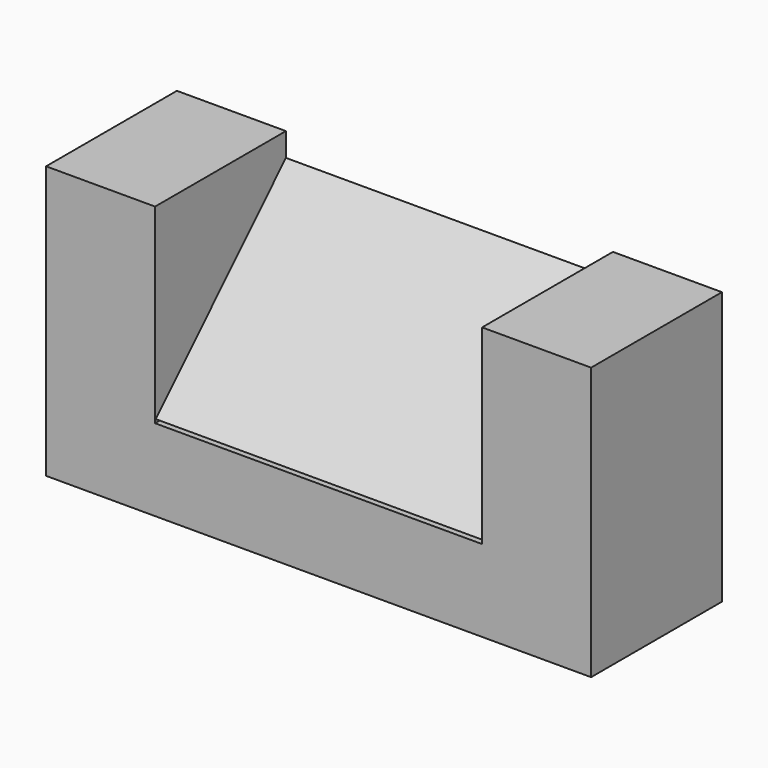
from build123d import *

# Parameters (mm, degrees)
F1_DEPTH      = 38.1
F3_DEPTH      = 76.2
F3_DEPTH_BACK = 25.4


with BuildPart() as f1:
    # F0 (on Front) → F1 (new body)
    with BuildSketch(Plane.XZ):
        Polygon((-16.156067, 31.874919), (-41.556067, 31.874919), (-41.556067, -31.625081), (85.443933, -31.625081), (85.443933, 31.874919), (60.043933, 31.874919), (60.043933, -12.575081), (-16.156067, -12.575081), align=None)
    extrude(amount=F1_DEPTH)

    # F2 (on Right) → F3 (join, two sides)
    with BuildSketch(Plane.YZ) as f3_sk:
        Polygon((-37.891805, -11.804755), (0, -11.804755), (0, 26.378524), align=None)
    extrude(amount=F3_DEPTH)
    extrude(f3_sk.sketch, amount=-F3_DEPTH_BACK)


solid = f1.part
